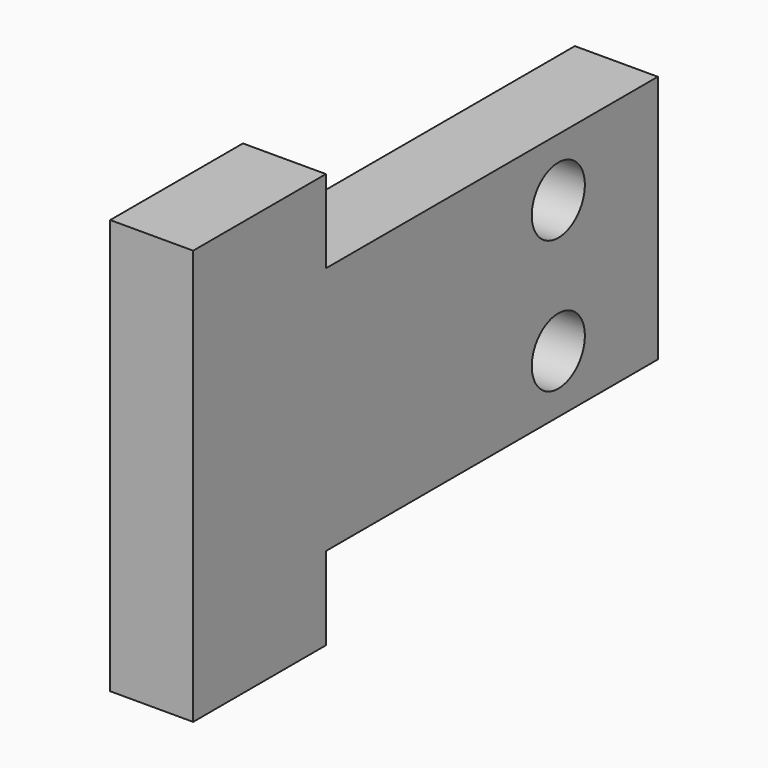
from build123d import *

# Parameters (mm, degrees)
PAD_DEPTH    = 10
SKETCH001_R  = 4
POCKET_DEPTH = 10


with BuildPart() as part:
    # Sketch → Pad (new body)
    with BuildSketch(Plane.YZ):
        Polygon((-40.011498, 25), (-20.011498, 25), (-20.011498, 15), (29.988502, 15), (29.988502, -15), (-20.011498, -15), (-20.011498, -25), (-40.011498, -25), align=None)
    extrude(amount=PAD_DEPTH)

    # Sketch001 → Pocket (cut)
    with BuildSketch(Plane.YZ.offset(10)):
        with Locations((15, 8)):
            Circle(SKETCH001_R)
        with Locations((15, -8)):
            Circle(SKETCH001_R)
    extrude(amount=-POCKET_DEPTH, mode=Mode.SUBTRACT)


solid = part.part
